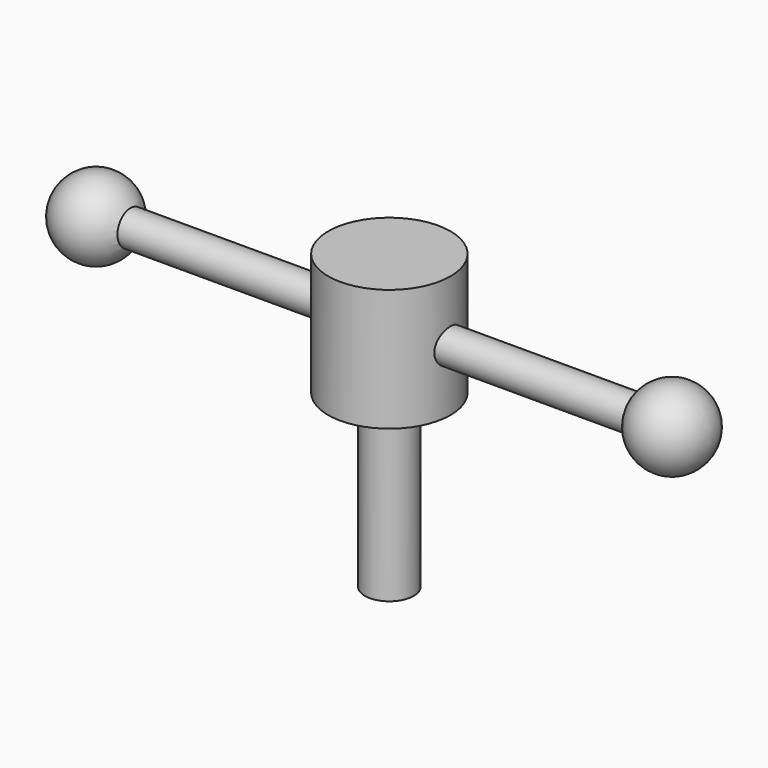
from build123d import *

# Parameters (mm, degrees)
F0_R     = 15.875
F0_R_2   = 6.35
F1_DEPTH = 31.75
F2_DEPTH = 76.2
F3_R     = 4.445
F4_DEPTH = 76.2


with BuildPart() as f1:
    # F0 (on Top) → F1 (new body)
    with BuildSketch(Plane.XY):
        Circle(F0_R)
        Circle(F0_R_2, mode=Mode.SUBTRACT)
    extrude(amount=-F1_DEPTH)

    # F0 (on Top) → F2 (join)
    with BuildSketch(Plane.XY):
        Circle(F0_R_2)
    extrude(amount=-F2_DEPTH)

    # F3 (on Right) → F4 (join, symmetric)
    with BuildSketch(Plane.YZ):
        with Locations((0, -15.875)):
            Circle(F3_R)
    extrude(amount=F4_DEPTH, both=True)

    # F7 (on Front) → F8 (revolve)
    with BuildSketch(Plane.XZ):
        with BuildLine():
            Line((73.423605, -5.542184), (73.423605, -25.862184))
            ThreePointArc((73.423605, -25.862184), (83.583605, -15.702184), (73.423605, -5.542184))
        make_face()
    revolve(axis=Axis((73.423605, 0, -26.137914), (0, 0, -1)))



with BuildPart() as f6:
    # F5 (on Front) → F6 (revolve)
    with BuildSketch(Plane.XZ):
        with BuildLine():
            Line((-76.2, -26.452393), (-76.2, -6.132393))
            ThreePointArc((-76.2, -6.132393), (-86.36, -16.292393), (-76.2, -26.452393))
        make_face()
    revolve(axis=Axis((-76.2, 0, -32.181646), (0, 0, -1)))


with BuildPart() as f1_1:
    add(f1.part)

    add(f6.part)  # F9 merges F6
    # F5 (on Front) → F9 (revolve)
    with BuildSketch(Plane.XZ):
        with BuildLine():
            Line((-76.2, -26.452393), (-76.2, -6.132393))
            ThreePointArc((-76.2, -6.132393), (-86.36, -16.292393), (-76.2, -26.452393))
        make_face()
    revolve(axis=Axis((-76.2, 0, -32.181646), (0, 0, -1)))


solid = f1_1.part
